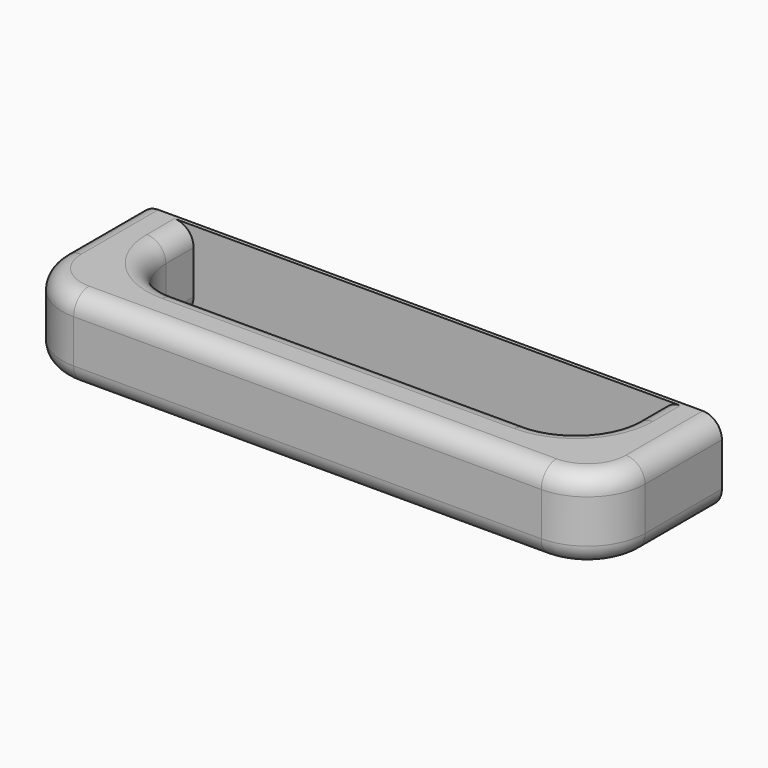
from build123d import *

# Parameters (mm, degrees)
SKETCH012_W     = 151.632408
SKETCH012_H     = 21.2714
PAD008_DEPTH    = 40
SKETCH013_W     = 121.632408
SKETCH013_H     = 24
POCKET004_DEPTH = 21.2724
FILLET004_R     = 15
FILLET005_R     = 5


with BuildPart() as part:
    # Sketch012 (on Face1 of CopyPocket003) → Pad008 (new body)
    with BuildSketch(Plane.XZ.offset(825)):
        with Locations((-597.5, -324.507206)):
            Rectangle(SKETCH012_W, SKETCH012_H)
    extrude(amount=PAD008_DEPTH)

    # Sketch013 (on Face4 of Pad008) → Pocket004 (cut, through all)
    with BuildSketch(Plane(origin=(0, 0, -313.871506), x_dir=(-1, 0, 0), z_dir=(0, 0, 1))):
        with Locations((597.5, 838)):
            Rectangle(SKETCH013_W, SKETCH013_H)
    extrude(amount=-POCKET004_DEPTH, mode=Mode.SUBTRACT)

    # Fillet004
    fillet004_edges = [part.edges().sort_by_distance(p)[0] for p in [
        (-521.683796, -865, -324.507206),
        (-673.316204, -865, -324.507206),
        (-536.683796, -850, -324.507206),
        (-658.316204, -850, -324.507206),
    ]]
    fillet(fillet004_edges, radius=FILLET004_R)

    # Fillet005
    fillet005_edges = [part.edges().sort_by_distance(p)[0] for p in [
        (-597.5, -865, -313.871506),
        (-597.5, -865, -335.142906),
        (-597.5, -850, -313.871506),
        (-597.5, -850, -335.142906),
    ]]
    fillet(fillet005_edges, radius=FILLET005_R)


solid = part.part
